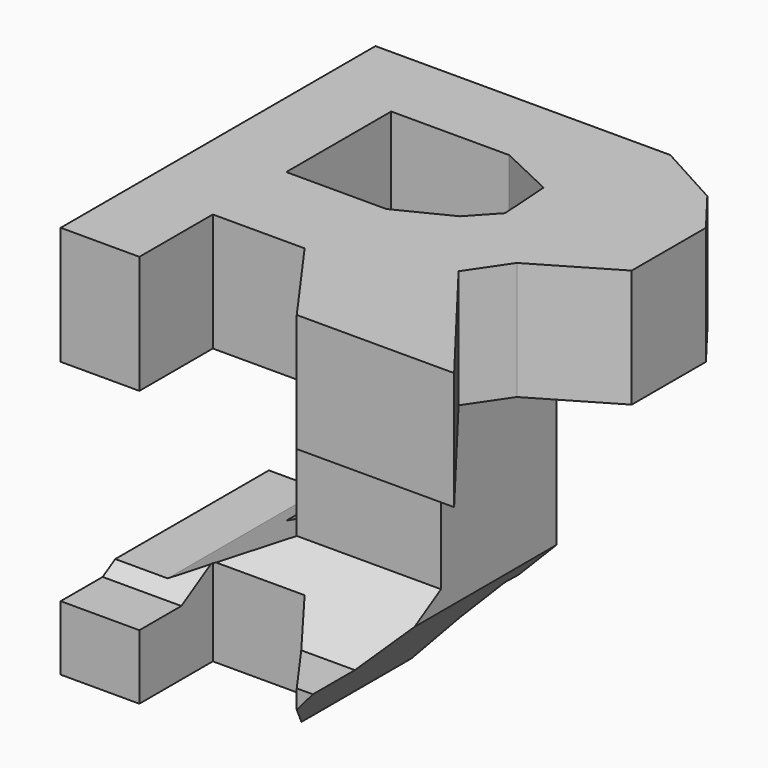
from build123d import *

# Parameters (mm, degrees)
F3_W      = 38.1
F3_H      = 38.1
F4_DEPTH  = 38.1
F6_DEPTH  = 38.1
F8_DEPTH  = 38.1
F10_DEPTH = 38.1


with BuildPart() as f4:
    # F3 (on Front) → F4 (new body)
    with BuildSketch(Plane.XZ):
        with Locations((19.05, 19.05)):
            Rectangle(F3_W, F3_H)
    extrude(amount=F4_DEPTH)

    # F5 (on offset) → F6 (cut)
    with BuildSketch(Plane.XZ.offset(38.1)):
        Polygon((0, 26.67), (0, 7.174831), (5.08, 7.174831), (12.7, 10.795), (12.7, 26.67), align=None)
        Polygon((26.67, 8.89), (19.05, 0), (38.1, 0), (38.1, 26.67), (26.67, 26.67), align=None)
    extrude(amount=-F6_DEPTH, mode=Mode.SUBTRACT)

    # F7 (on offset) → F8 (cut)
    with BuildSketch(Plane.YZ.offset(38.1)):
        Polygon((-38.1, 26.67), (-38.1, 6.268343), (-33.02, 6.268343), (-25.4, 10.795), (-25.4, 26.67), align=None)
        Polygon((-19.05, 0), (0, 0), (0, 26.67), (-11.43, 26.67), (-11.43, 8.89), align=None)
    extrude(amount=-F8_DEPTH, mode=Mode.SUBTRACT)

    # F9 (on offset) → F10 (cut)
    with BuildSketch(Plane.XY.offset(38.1)):
        Polygon((7.62, -29.21), (7.62, -38.1), (22.86, -38.1), (16.51, -29.21), align=None)
        Polygon((19.05, -7.62), (7.62, -7.62), (7.62, -20.32), (17.297857, -20.32), (22.396552, -17.78), (24.747821, -15.24), (24.407931, -10.16), align=None)
        Polygon((38.1, -38.1), (38.1, -16.605278), (30.532379, -21.050278), (27.94, -24.860278), align=None)
        Polygon((38.1, 0), (28.555734, 0), (34.945868, -3.50978), (38.1, -7.62), align=None)
    extrude(amount=-F10_DEPTH, mode=Mode.SUBTRACT)


solid = f4.part
